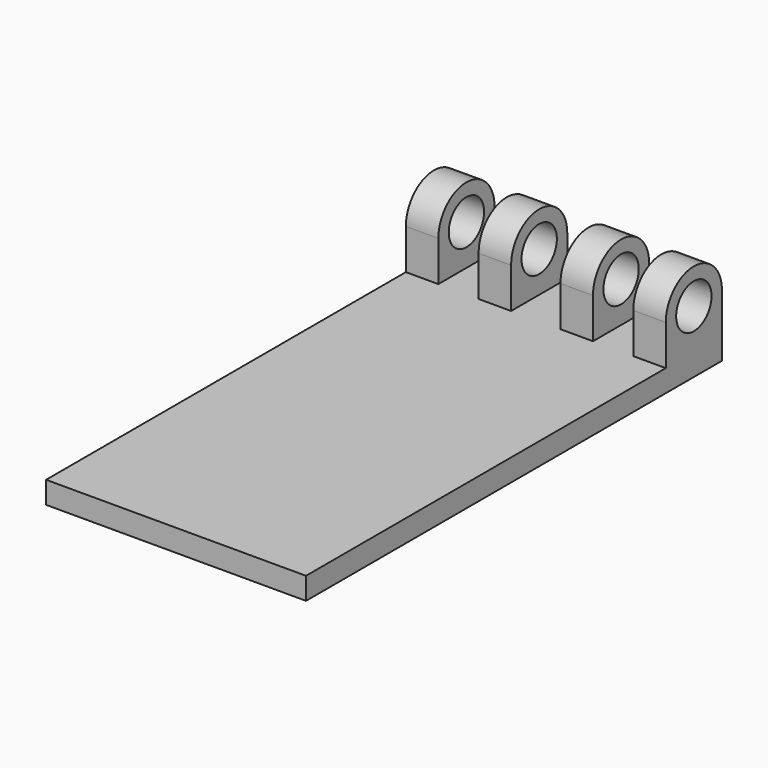
from build123d import *

# Parameters (mm, degrees)
F0_W      = 43.942
F0_H      = 2.159
F0_W_2    = 6.858
F1_DEPTH  = 25.4
F0_R      = 2.159
F2_DEPTH  = 3.175
F3_R      = 2.159
F4_DEPTH  = 3.175
F6_R      = 2.159
F7_DEPTH  = 3.175
F9_R      = 2.159
F10_DEPTH = 3.175


with BuildPart() as f1:
    # F0 (on Right) → F1 (new body)
    with BuildSketch(Plane.YZ):
        with Locations((-17.288983049, 3.5224220661)):
            Rectangle(F0_W, F0_H)
        with Locations((8.111016951, 3.5224220661)):
            Rectangle(F0_W_2, F0_H)
    extrude(amount=F1_DEPTH)

    # F0 (on Right) → F2 (join)
    with BuildSketch(Plane.YZ):
        with BuildLine():
            Line((4.682016951, 8.5389220661), (4.682016951, 4.6019220661))
            Line((4.682016951, 4.6019220661), (11.540016951, 4.6019220661))
            Line((11.540016951, 4.6019220661), (11.540016951, 8.5389220661))
            ThreePointArc((11.540016951, 8.5389220661), (8.111016951, 5.1099220661), (4.682016951, 8.5389220661))
        make_face()
        with BuildLine():
            Line((4.682016951, 8.5389220661), (4.682016951, 4.6019220661))
            Line((4.682016951, 4.6019220661), (11.540016951, 4.6019220661))
            Line((11.540016951, 4.6019220661), (11.540016951, 8.5389220661))
            ThreePointArc((11.540016951, 8.5389220661), (8.111016951, 5.1099220661), (4.682016951, 8.5389220661))
        make_face()
        with BuildLine():
            ThreePointArc((11.540016951, 8.5389220661), (8.111016951, 11.9679220661), (4.682016951, 8.5389220661))
            ThreePointArc((4.682016951, 8.5389220661), (8.111016951, 5.1099220661), (11.540016951, 8.5389220661))
        make_face()
        with Locations((8.111016951, 8.5389220661)):
            Circle(F0_R, mode=Mode.SUBTRACT)
    extrude(amount=F2_DEPTH)

    # F3 (on face) → F4 (join)
    with BuildSketch(Plane.YZ.offset(25.4)):
        with BuildLine():
            ThreePointArc((4.682016951, 8.5389220661), (8.111016951, 5.1099220661), (11.540016951, 8.5389220661))
            ThreePointArc((11.540016951, 8.5389220661), (8.111016951, 11.9679220661), (4.682016951, 8.5389220661))
        make_face()
        with Locations((8.111016951, 8.5389220661)):
            Circle(F3_R, mode=Mode.SUBTRACT)
        with BuildLine():
            Line((11.540016951, 4.6019220661), (11.540016951, 8.5389220661))
            ThreePointArc((11.540016951, 8.5389220661), (8.111016951, 5.1099220661), (4.682016951, 8.5389220661))
            Line((4.682016951, 8.5389220661), (4.682016951, 4.6019220661))
            Line((4.682016951, 4.6019220661), (11.540016951, 4.6019220661))
        make_face()
    extrude(amount=-F4_DEPTH)

    # F6 (on offset) → F7 (join)
    with BuildSketch(Plane.YZ.offset(7.112)):
        with BuildLine():
            Line((11.540016951, 4.6019220661), (11.540016951, 8.5389220661))
            ThreePointArc((11.540016951, 8.5389220661), (8.111016951, 11.9679220661), (4.682016951, 8.5389220661))
            Line((4.682016951, 8.5389220661), (4.682016951, 4.6019220661))
            Line((4.682016951, 4.6019220661), (11.540016951, 4.6019220661))
        make_face()
        with Locations((8.111016951, 8.5389220661)):
            Circle(F6_R, mode=Mode.SUBTRACT)
    extrude(amount=F7_DEPTH)

    # F9 (on offset) → F10 (join)
    with BuildSketch(Plane.YZ.offset(18.288)):
        with BuildLine():
            Line((4.682016951, 8.5389220661), (4.682016951, 4.6019220661))
            Line((4.682016951, 4.6019220661), (11.540016951, 4.6019220661))
            Line((11.540016951, 4.6019220661), (11.540016951, 8.5389220661))
            ThreePointArc((11.540016951, 8.5389220661), (8.111016951, 11.9679220661), (4.682016951, 8.5389220661))
        make_face()
        with Locations((8.111016951, 8.5389220661)):
            Circle(F9_R, mode=Mode.SUBTRACT)
    extrude(amount=-F10_DEPTH)


solid = f1.part
